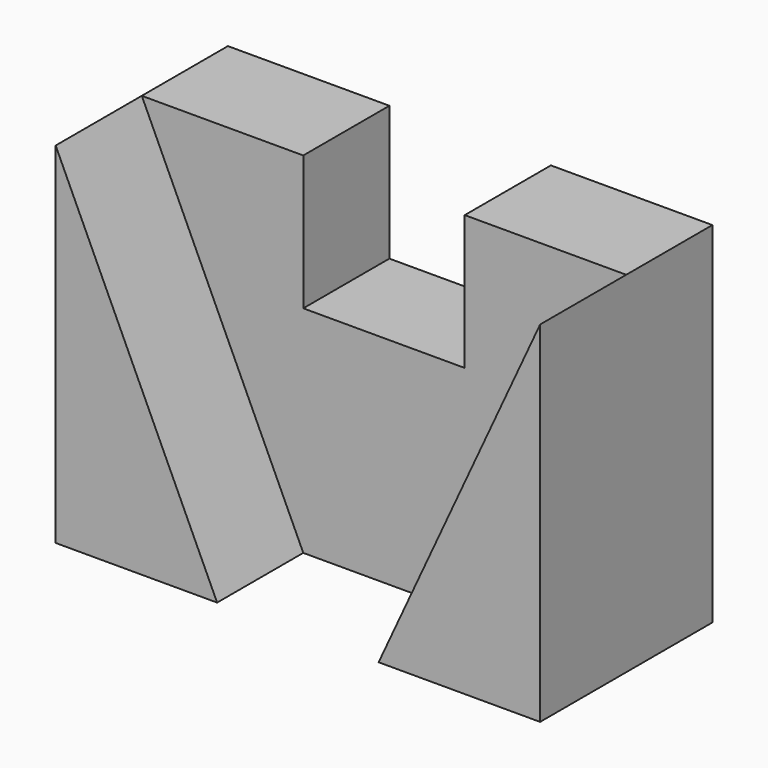
from build123d import *

# Parameters (mm, degrees)
F1_DEPTH = 20
F3_DEPTH = 20


with BuildPart() as f1:
    # F0 (on Front) → F1 (new body)
    with BuildSketch(Plane.XZ):
        Polygon((-45, 34.875002), (-45, -30.124998), (0, -30.124998), (45, -30.124998), (45, 34.875002), (15, 34.875002), (15, 9.875002), (-15, 9.875002), (-15, 34.875002), align=None)
    extrude(amount=F1_DEPTH)

    # F2 (on face) → F3 (join)
    with BuildSketch(Plane.XZ.offset(20)):
        Polygon((-45, 34.875002), (-45, -30.124998), (-15, -30.124998), align=None)
        Polygon((45, 34.875002), (15, -30.124998), (45, -30.124998), align=None)
    extrude(amount=F3_DEPTH)


solid = f1.part
